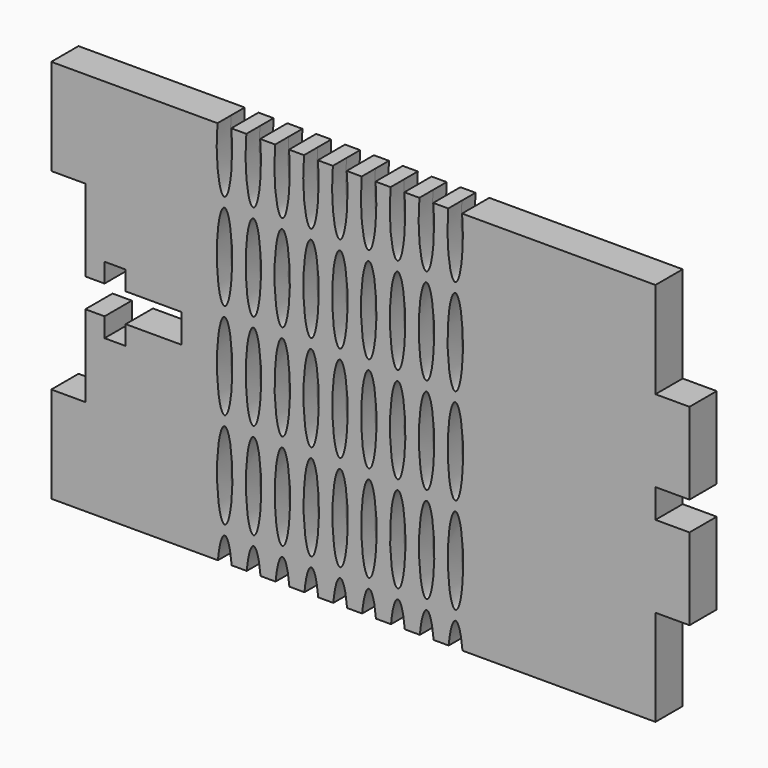
from build123d import *

# Parameters (mm, degrees)
F1_DEPTH = 2.2479


with BuildPart() as f1:
    # F0 (on Front) → F1 (new body, symmetric)
    with BuildSketch(Plane.XZ):
        with BuildLine():
            Line((14.4126236049, -25.4), (39.89705, -25.4))
            Line((39.89705, -25.4), (39.89705, -12.7))
            Line((39.89705, -12.7), (44.39285, -12.7))
            Line((44.39285, -12.7), (44.39285, -1.905))
            Line((44.39285, -1.905), (39.89705, -1.905))
            Line((39.89705, -1.905), (39.89705, 1.905))
            Line((39.89705, 1.905), (44.39285, 1.905))
            Line((44.39285, 1.905), (44.39285, 12.7))
            Line((44.39285, 12.7), (39.89705, 12.7))
            Line((39.89705, 12.7), (39.89705, 25.4))
            Line((39.89705, 25.4), (14.3530893191, 25.4))
            add(Edge.make_bspline(
                [(12.5328106809, 25.4), (11.8046992255, 17.145), (13.44295, 17.145), (15.0812007745, 17.145), (14.3530893191, 25.4)],
                knots=[4.2518349887, 4.2518349887, 4.2518349887, 6.2831853072, 6.2831853072, 8.3145356257, 8.3145356257, 8.3145356257], degree=2, weights=[1, 0.5270462767, 1, 0.5270462767, 1]))
            Line((12.5328106809, 25.4), (10.5430893191, 25.4))
            add(Edge.make_bspline(
                [(8.7228106809, 25.4), (7.9946992255, 17.145), (9.63295, 17.145), (11.2712007745, 17.145), (10.5430893191, 25.4)],
                knots=[4.2518349887, 4.2518349887, 4.2518349887, 6.2831853072, 6.2831853072, 8.3145356257, 8.3145356257, 8.3145356257], degree=2, weights=[1, 0.5270462767, 1, 0.5270462767, 1]))
            Line((8.7228106809, 25.4), (6.7330893191, 25.4))
            add(Edge.make_bspline(
                [(4.9128106809, 25.4), (4.1846992255, 17.145), (5.82295, 17.145), (7.4612007745, 17.145), (6.7330893191, 25.4)],
                knots=[4.2518349887, 4.2518349887, 4.2518349887, 6.2831853072, 6.2831853072, 8.3145356257, 8.3145356257, 8.3145356257], degree=2, weights=[1, 0.5270462767, 1, 0.5270462767, 1]))
            Line((4.9128106809, 25.4), (2.9230893191, 25.4))
            add(Edge.make_bspline(
                [(1.1028106809, 25.4), (0.3746992255, 17.145), (2.01295, 17.145), (3.6512007745, 17.145), (2.9230893191, 25.4)],
                knots=[4.2518349887, 4.2518349887, 4.2518349887, 6.2831853072, 6.2831853072, 8.3145356257, 8.3145356257, 8.3145356257], degree=2, weights=[1, 0.5270462767, 1, 0.5270462767, 1]))
            Line((1.1028106809, 25.4), (-0.8869106809, 25.4))
            add(Edge.make_bspline(
                [(-2.7071893191, 25.4), (-3.4353007745, 17.145), (-1.79705, 17.145), (-0.1587992255, 17.145), (-0.8869106809, 25.4)],
                knots=[4.2518349887, 4.2518349887, 4.2518349887, 6.2831853072, 6.2831853072, 8.3145356257, 8.3145356257, 8.3145356257], degree=2, weights=[1, 0.5270462767, 1, 0.5270462767, 1]))
            Line((-2.7071893191, 25.4), (-4.6969106809, 25.4))
            add(Edge.make_bspline(
                [(-6.5171893191, 25.4), (-7.2453007745, 17.145), (-5.60705, 17.145), (-3.9687992255, 17.145), (-4.6969106809, 25.4)],
                knots=[4.2518349887, 4.2518349887, 4.2518349887, 6.2831853072, 6.2831853072, 8.3145356257, 8.3145356257, 8.3145356257], degree=2, weights=[1, 0.5270462767, 1, 0.5270462767, 1]))
            Line((-6.5171893191, 25.4), (-8.5069106809, 25.4))
            add(Edge.make_bspline(
                [(-10.3271893191, 25.4), (-11.0553007745, 17.145), (-9.41705, 17.145), (-7.7787992255, 17.145), (-8.5069106809, 25.4)],
                knots=[4.2518349887, 4.2518349887, 4.2518349887, 6.2831853072, 6.2831853072, 8.3145356257, 8.3145356257, 8.3145356257], degree=2, weights=[1, 0.5270462767, 1, 0.5270462767, 1]))
            Line((-10.3271893191, 25.4), (-12.3169106809, 25.4))
            add(Edge.make_bspline(
                [(-14.1371893191, 25.4), (-14.8653007745, 17.145), (-13.22705, 17.145), (-11.5887992255, 17.145), (-12.3169106809, 25.4)],
                knots=[4.2518349887, 4.2518349887, 4.2518349887, 6.2831853072, 6.2831853072, 8.3145356257, 8.3145356257, 8.3145356257], degree=2, weights=[1, 0.5270462767, 1, 0.5270462767, 1]))
            Line((-14.1371893191, 25.4), (-16.1269106809, 25.4))
            add(Edge.make_bspline(
                [(-17.9471893191, 25.4), (-18.6753007745, 17.145), (-17.03705, 17.145), (-15.3987992255, 17.145), (-16.1269106809, 25.4)],
                knots=[4.2518349887, 4.2518349887, 4.2518349887, 6.2831853072, 6.2831853072, 8.3145356257, 8.3145356257, 8.3145356257], degree=2, weights=[1, 0.5270462767, 1, 0.5270462767, 1]))
            Line((-17.9471893191, 25.4), (-39.89705, 25.4))
            Line((-39.89705, 25.4), (-39.89705, 12.7))
            Line((-39.89705, 12.7), (-35.40125, 12.7))
            Line((-35.40125, 12.7), (-35.40125, 1.905))
            Line((-35.40125, 1.905), (-32.86125, 1.905))
            Line((-32.86125, 1.905), (-32.86125, 4.445))
            Line((-32.86125, 4.445), (-30.06725, 4.445))
            Line((-30.06725, 4.445), (-30.06725, 1.905))
            Line((-30.06725, 1.905), (-22.70125, 1.905))
            Line((-22.70125, 1.905), (-22.70125, -1.905))
            Line((-22.70125, -1.905), (-30.06725, -1.905))
            Line((-30.06725, -1.905), (-30.06725, -4.445))
            Line((-30.06725, -4.445), (-32.86125, -4.445))
            Line((-32.86125, -4.445), (-32.86125, -1.905))
            Line((-32.86125, -1.905), (-35.40125, -1.905))
            Line((-35.40125, -1.905), (-35.40125, -12.7))
            Line((-35.40125, -12.7), (-39.89705, -12.7))
            Line((-39.89705, -12.7), (-39.89705, -25.4))
            Line((-39.89705, -25.4), (-17.8876611866, -25.4))
            add(Edge.make_bspline(
                [(-16.0673763951, -25.4), (-16.9775187909, -15.0810385281), (-17.8876611866, -25.4)],
                knots=[2.0313435051, 2.0313435051, 2.0313435051, 4.2518418021, 4.2518418021, 4.2518418021], degree=2, weights=[1, 0.4444383409, 1]))
            Line((-16.0673763951, -25.4), (-14.0776611866, -25.4))
            add(Edge.make_bspline(
                [(-12.2573763951, -25.4), (-13.1675187909, -15.0810385281), (-14.0776611866, -25.4)],
                knots=[2.0313435051, 2.0313435051, 2.0313435051, 4.2518418021, 4.2518418021, 4.2518418021], degree=2, weights=[1, 0.4444383409, 1]))
            Line((-12.2573763951, -25.4), (-10.2676611866, -25.4))
            add(Edge.make_bspline(
                [(-8.4473763951, -25.4), (-9.3575187909, -15.0810385281), (-10.2676611866, -25.4)],
                knots=[2.0313435051, 2.0313435051, 2.0313435051, 4.2518418021, 4.2518418021, 4.2518418021], degree=2, weights=[1, 0.4444383409, 1]))
            Line((-8.4473763951, -25.4), (-6.4576611866, -25.4))
            add(Edge.make_bspline(
                [(-4.6373763951, -25.4), (-5.5475187909, -15.0810385281), (-6.4576611866, -25.4)],
                knots=[2.0313435051, 2.0313435051, 2.0313435051, 4.2518418021, 4.2518418021, 4.2518418021], degree=2, weights=[1, 0.4444383409, 1]))
            Line((-4.6373763951, -25.4), (-2.6476611866, -25.4))
            add(Edge.make_bspline(
                [(-0.8273763951, -25.4), (-1.7375187909, -15.0810385281), (-2.6476611866, -25.4)],
                knots=[2.0313435051, 2.0313435051, 2.0313435051, 4.2518418021, 4.2518418021, 4.2518418021], degree=2, weights=[1, 0.4444383409, 1]))
            Line((-0.8273763951, -25.4), (1.1623388134, -25.4))
            add(Edge.make_bspline(
                [(2.9826236049, -25.4), (2.0724812091, -15.0810385281), (1.1623388134, -25.4)],
                knots=[2.0313435051, 2.0313435051, 2.0313435051, 4.2518418021, 4.2518418021, 4.2518418021], degree=2, weights=[1, 0.4444383409, 1]))
            Line((2.9826236049, -25.4), (4.9723388134, -25.4))
            add(Edge.make_bspline(
                [(6.7926236049, -25.4), (5.8824812091, -15.0810385281), (4.9723388134, -25.4)],
                knots=[2.0313435051, 2.0313435051, 2.0313435051, 4.2518418021, 4.2518418021, 4.2518418021], degree=2, weights=[1, 0.4444383409, 1]))
            Line((6.7926236049, -25.4), (8.7823388134, -25.4))
            add(Edge.make_bspline(
                [(10.6026236049, -25.4), (9.6924812091, -15.0810385281), (8.7823388134, -25.4)],
                knots=[2.0313435051, 2.0313435051, 2.0313435051, 4.2518418021, 4.2518418021, 4.2518418021], degree=2, weights=[1, 0.4444383409, 1]))
            Line((10.6026236049, -25.4), (12.5923388134, -25.4))
            add(Edge.make_bspline(
                [(14.4126236049, -25.4), (13.5024812091, -15.0810385281), (12.5923388134, -25.4)],
                knots=[2.0313435051, 2.0313435051, 2.0313435051, 4.2518418021, 4.2518418021, 4.2518418021], degree=2, weights=[1, 0.4444383409, 1]))
        make_face()
        with BuildLine():
            add(Edge.make_bspline(
                [(-16.9924015932, -20.9549738388), (-15.2326379727, -20.9549738388), (-16.1125197829, -12.3824738388), (-16.9924015932, -3.8099738388), (-17.8722834034, -12.3824738388), (-18.7521652136, -20.9549738388), (-16.9924015932, -20.9549738388)],
                knots=[0, 0, 0, 2.0943951024, 2.0943951024, 4.1887902048, 4.1887902048, 6.2831853072, 6.2831853072, 6.2831853072], degree=2, weights=[1, 0.5, 1, 0.5, 1, 0.5, 1]))
        make_face(mode=Mode.SUBTRACT)
        with BuildLine():
            add(Edge.make_bspline(
                [(-13.1824015932, -20.9549738388), (-11.4226379727, -20.9549738388), (-12.3025197829, -12.3824738388), (-13.1824015932, -3.8099738388), (-14.0622834034, -12.3824738388), (-14.9421652136, -20.9549738388), (-13.1824015932, -20.9549738388)],
                knots=[0, 0, 0, 2.0943951024, 2.0943951024, 4.1887902048, 4.1887902048, 6.2831853072, 6.2831853072, 6.2831853072], degree=2, weights=[1, 0.5, 1, 0.5, 1, 0.5, 1]))
        make_face(mode=Mode.SUBTRACT)
        with BuildLine():
            add(Edge.make_bspline(
                [(-9.3724015932, -20.9549738388), (-7.6126379727, -20.9549738388), (-8.4925197829, -12.3824738388), (-9.3724015932, -3.8099738388), (-10.2522834034, -12.3824738388), (-11.1321652136, -20.9549738388), (-9.3724015932, -20.9549738388)],
                knots=[0, 0, 0, 2.0943951024, 2.0943951024, 4.1887902048, 4.1887902048, 6.2831853072, 6.2831853072, 6.2831853072], degree=2, weights=[1, 0.5, 1, 0.5, 1, 0.5, 1]))
        make_face(mode=Mode.SUBTRACT)
        with BuildLine():
            add(Edge.make_bspline(
                [(-5.5624015932, -20.9549738388), (-3.8026379727, -20.9549738388), (-4.6825197829, -12.3824738388), (-5.5624015932, -3.8099738388), (-6.4422834034, -12.3824738388), (-7.3221652136, -20.9549738388), (-5.5624015932, -20.9549738388)],
                knots=[0, 0, 0, 2.0943951024, 2.0943951024, 4.1887902048, 4.1887902048, 6.2831853072, 6.2831853072, 6.2831853072], degree=2, weights=[1, 0.5, 1, 0.5, 1, 0.5, 1]))
        make_face(mode=Mode.SUBTRACT)
        with BuildLine():
            add(Edge.make_bspline(
                [(-1.7524015932, -20.9549738388), (0.0073620273, -20.9549738388), (-0.8725197829, -12.3824738388), (-1.7524015932, -3.8099738388), (-2.6322834034, -12.3824738388), (-3.5121652136, -20.9549738388), (-1.7524015932, -20.9549738388)],
                knots=[0, 0, 0, 2.0943951024, 2.0943951024, 4.1887902048, 4.1887902048, 6.2831853072, 6.2831853072, 6.2831853072], degree=2, weights=[1, 0.5, 1, 0.5, 1, 0.5, 1]))
        make_face(mode=Mode.SUBTRACT)
        with BuildLine():
            add(Edge.make_bspline(
                [(2.0575984068, -20.9549738388), (3.8173620273, -20.9549738388), (2.9374802171, -12.3824738388), (2.0575984068, -3.8099738388), (1.1777165966, -12.3824738388), (0.2978347864, -20.9549738388), (2.0575984068, -20.9549738388)],
                knots=[0, 0, 0, 2.0943951024, 2.0943951024, 4.1887902048, 4.1887902048, 6.2831853072, 6.2831853072, 6.2831853072], degree=2, weights=[1, 0.5, 1, 0.5, 1, 0.5, 1]))
        make_face(mode=Mode.SUBTRACT)
        with BuildLine():
            add(Edge.make_bspline(
                [(-17.0072843954, -8.2549825592), (-15.2475207749, -8.2549825592), (-16.1274025852, 0.3175174408), (-17.0072843954, 8.8900174408), (-17.8871662057, 0.3175174408), (-18.7670480159, -8.2549825592), (-17.0072843954, -8.2549825592)],
                knots=[0, 0, 0, 2.0943951024, 2.0943951024, 4.1887902048, 4.1887902048, 6.2831853072, 6.2831853072, 6.2831853072], degree=2, weights=[1, 0.5, 1, 0.5, 1, 0.5, 1]))
        make_face(mode=Mode.SUBTRACT)
        with BuildLine():
            add(Edge.make_bspline(
                [(-13.1972843954, -8.2549825592), (-11.4375207749, -8.2549825592), (-12.3174025852, 0.3175174408), (-13.1972843954, 8.8900174408), (-14.0771662057, 0.3175174408), (-14.9570480159, -8.2549825592), (-13.1972843954, -8.2549825592)],
                knots=[0, 0, 0, 2.0943951024, 2.0943951024, 4.1887902048, 4.1887902048, 6.2831853072, 6.2831853072, 6.2831853072], degree=2, weights=[1, 0.5, 1, 0.5, 1, 0.5, 1]))
        make_face(mode=Mode.SUBTRACT)
        with BuildLine():
            add(Edge.make_bspline(
                [(-9.3872843954, -8.2549825592), (-7.6275207749, -8.2549825592), (-8.5074025852, 0.3175174408), (-9.3872843954, 8.8900174408), (-10.2671662057, 0.3175174408), (-11.1470480159, -8.2549825592), (-9.3872843954, -8.2549825592)],
                knots=[0, 0, 0, 2.0943951024, 2.0943951024, 4.1887902048, 4.1887902048, 6.2831853072, 6.2831853072, 6.2831853072], degree=2, weights=[1, 0.5, 1, 0.5, 1, 0.5, 1]))
        make_face(mode=Mode.SUBTRACT)
        with BuildLine():
            add(Edge.make_bspline(
                [(-5.5772843954, -8.2549825592), (-3.8175207749, -8.2549825592), (-4.6974025852, 0.3175174408), (-5.5772843954, 8.8900174408), (-6.4571662057, 0.3175174408), (-7.3370480159, -8.2549825592), (-5.5772843954, -8.2549825592)],
                knots=[0, 0, 0, 2.0943951024, 2.0943951024, 4.1887902048, 4.1887902048, 6.2831853072, 6.2831853072, 6.2831853072], degree=2, weights=[1, 0.5, 1, 0.5, 1, 0.5, 1]))
        make_face(mode=Mode.SUBTRACT)
        with BuildLine():
            add(Edge.make_bspline(
                [(-1.7672843954, -8.2549825592), (-0.0075207749, -8.2549825592), (-0.8874025852, 0.3175174408), (-1.7672843954, 8.8900174408), (-2.6471662057, 0.3175174408), (-3.5270480159, -8.2549825592), (-1.7672843954, -8.2549825592)],
                knots=[0, 0, 0, 2.0943951024, 2.0943951024, 4.1887902048, 4.1887902048, 6.2831853072, 6.2831853072, 6.2831853072], degree=2, weights=[1, 0.5, 1, 0.5, 1, 0.5, 1]))
        make_face(mode=Mode.SUBTRACT)
        with BuildLine():
            add(Edge.make_bspline(
                [(2.0427156046, -8.2549825592), (3.8024792251, -8.2549825592), (2.9225974148, 0.3175174408), (2.0427156046, 8.8900174408), (1.1628337943, 0.3175174408), (0.2829519841, -8.2549825592), (2.0427156046, -8.2549825592)],
                knots=[0, 0, 0, 2.0943951024, 2.0943951024, 4.1887902048, 4.1887902048, 6.2831853072, 6.2831853072, 6.2831853072], degree=2, weights=[1, 0.5, 1, 0.5, 1, 0.5, 1]))
        make_face(mode=Mode.SUBTRACT)
        with BuildLine():
            add(Edge.make_bspline(
                [(5.8675984068, -20.9549738388), (7.6273620273, -20.9549738388), (6.7474802171, -12.3824738388), (5.8675984068, -3.8099738388), (4.9877165966, -12.3824738388), (4.1078347864, -20.9549738388), (5.8675984068, -20.9549738388)],
                knots=[0, 0, 0, 2.0943951024, 2.0943951024, 4.1887902048, 4.1887902048, 6.2831853072, 6.2831853072, 6.2831853072], degree=2, weights=[1, 0.5, 1, 0.5, 1, 0.5, 1]))
        make_face(mode=Mode.SUBTRACT)
        with BuildLine():
            add(Edge.make_bspline(
                [(9.6775984068, -20.9549738388), (11.4373620273, -20.9549738388), (10.5574802171, -12.3824738388), (9.6775984068, -3.8099738388), (8.7977165966, -12.3824738388), (7.9178347864, -20.9549738388), (9.6775984068, -20.9549738388)],
                knots=[0, 0, 0, 2.0943951024, 2.0943951024, 4.1887902048, 4.1887902048, 6.2831853072, 6.2831853072, 6.2831853072], degree=2, weights=[1, 0.5, 1, 0.5, 1, 0.5, 1]))
        make_face(mode=Mode.SUBTRACT)
        with BuildLine():
            add(Edge.make_bspline(
                [(13.4875984068, -20.9549738388), (15.2473620273, -20.9549738388), (14.3674802171, -12.3824738388), (13.4875984068, -3.8099738388), (12.6077165966, -12.3824738388), (11.7278347864, -20.9549738388), (13.4875984068, -20.9549738388)],
                knots=[0, 0, 0, 2.0943951024, 2.0943951024, 4.1887902048, 4.1887902048, 6.2831853072, 6.2831853072, 6.2831853072], degree=2, weights=[1, 0.5, 1, 0.5, 1, 0.5, 1]))
        make_face(mode=Mode.SUBTRACT)
        with BuildLine():
            add(Edge.make_bspline(
                [(5.8527156046, -8.2549825592), (7.6124792251, -8.2549825592), (6.7325974148, 0.3175174408), (5.8527156046, 8.8900174408), (4.9728337943, 0.3175174408), (4.0929519841, -8.2549825592), (5.8527156046, -8.2549825592)],
                knots=[0, 0, 0, 2.0943951024, 2.0943951024, 4.1887902048, 4.1887902048, 6.2831853072, 6.2831853072, 6.2831853072], degree=2, weights=[1, 0.5, 1, 0.5, 1, 0.5, 1]))
        make_face(mode=Mode.SUBTRACT)
        with BuildLine():
            add(Edge.make_bspline(
                [(9.6627156046, -8.2549825592), (11.4224792251, -8.2549825592), (10.5425974148, 0.3175174408), (9.6627156046, 8.8900174408), (8.7828337943, 0.3175174408), (7.9029519841, -8.2549825592), (9.6627156046, -8.2549825592)],
                knots=[0, 0, 0, 2.0943951024, 2.0943951024, 4.1887902048, 4.1887902048, 6.2831853072, 6.2831853072, 6.2831853072], degree=2, weights=[1, 0.5, 1, 0.5, 1, 0.5, 1]))
        make_face(mode=Mode.SUBTRACT)
        with BuildLine():
            add(Edge.make_bspline(
                [(13.4727156046, -8.2549825592), (15.2324792251, -8.2549825592), (14.3525974148, 0.3175174408), (13.4727156046, 8.8900174408), (12.5928337943, 0.3175174408), (11.7129519841, -8.2549825592), (13.4727156046, -8.2549825592)],
                knots=[0, 0, 0, 2.0943951024, 2.0943951024, 4.1887902048, 4.1887902048, 6.2831853072, 6.2831853072, 6.2831853072], degree=2, weights=[1, 0.5, 1, 0.5, 1, 0.5, 1]))
        make_face(mode=Mode.SUBTRACT)
        with BuildLine():
            add(Edge.make_bspline(
                [(-17.0221671977, 4.4450087204), (-15.2624035772, 4.4450087204), (-16.1422853875, 13.0175087204), (-17.0221671977, 21.5900087204), (-17.902049008, 13.0175087204), (-18.7819308182, 4.4450087204), (-17.0221671977, 4.4450087204)],
                knots=[0, 0, 0, 2.0943951024, 2.0943951024, 4.1887902048, 4.1887902048, 6.2831853072, 6.2831853072, 6.2831853072], degree=2, weights=[1, 0.5, 1, 0.5, 1, 0.5, 1]))
        make_face(mode=Mode.SUBTRACT)
        with BuildLine():
            add(Edge.make_bspline(
                [(-13.2121671977, 4.4450087204), (-11.4524035772, 4.4450087204), (-12.3322853875, 13.0175087204), (-13.2121671977, 21.5900087204), (-14.092049008, 13.0175087204), (-14.9719308182, 4.4450087204), (-13.2121671977, 4.4450087204)],
                knots=[0, 0, 0, 2.0943951024, 2.0943951024, 4.1887902048, 4.1887902048, 6.2831853072, 6.2831853072, 6.2831853072], degree=2, weights=[1, 0.5, 1, 0.5, 1, 0.5, 1]))
        make_face(mode=Mode.SUBTRACT)
        with BuildLine():
            add(Edge.make_bspline(
                [(-9.4021671977, 4.4450087204), (-7.6424035772, 4.4450087204), (-8.5222853875, 13.0175087204), (-9.4021671977, 21.5900087204), (-10.282049008, 13.0175087204), (-11.1619308182, 4.4450087204), (-9.4021671977, 4.4450087204)],
                knots=[0, 0, 0, 2.0943951024, 2.0943951024, 4.1887902048, 4.1887902048, 6.2831853072, 6.2831853072, 6.2831853072], degree=2, weights=[1, 0.5, 1, 0.5, 1, 0.5, 1]))
        make_face(mode=Mode.SUBTRACT)
        with BuildLine():
            add(Edge.make_bspline(
                [(-5.5921671977, 4.4450087204), (-3.8324035772, 4.4450087204), (-4.7122853875, 13.0175087204), (-5.5921671977, 21.5900087204), (-6.472049008, 13.0175087204), (-7.3519308182, 4.4450087204), (-5.5921671977, 4.4450087204)],
                knots=[0, 0, 0, 2.0943951024, 2.0943951024, 4.1887902048, 4.1887902048, 6.2831853072, 6.2831853072, 6.2831853072], degree=2, weights=[1, 0.5, 1, 0.5, 1, 0.5, 1]))
        make_face(mode=Mode.SUBTRACT)
        with BuildLine():
            add(Edge.make_bspline(
                [(-1.7821671977, 4.4450087204), (-0.0224035772, 4.4450087204), (-0.9022853875, 13.0175087204), (-1.7821671977, 21.5900087204), (-2.662049008, 13.0175087204), (-3.5419308182, 4.4450087204), (-1.7821671977, 4.4450087204)],
                knots=[0, 0, 0, 2.0943951024, 2.0943951024, 4.1887902048, 4.1887902048, 6.2831853072, 6.2831853072, 6.2831853072], degree=2, weights=[1, 0.5, 1, 0.5, 1, 0.5, 1]))
        make_face(mode=Mode.SUBTRACT)
        with BuildLine():
            add(Edge.make_bspline(
                [(2.0278328023, 4.4450087204), (3.7875964228, 4.4450087204), (2.9077146125, 13.0175087204), (2.0278328023, 21.5900087204), (1.147950992, 13.0175087204), (0.2680691818, 4.4450087204), (2.0278328023, 4.4450087204)],
                knots=[0, 0, 0, 2.0943951024, 2.0943951024, 4.1887902048, 4.1887902048, 6.2831853072, 6.2831853072, 6.2831853072], degree=2, weights=[1, 0.5, 1, 0.5, 1, 0.5, 1]))
        make_face(mode=Mode.SUBTRACT)
        with BuildLine():
            add(Edge.make_bspline(
                [(5.8378328023, 4.4450087204), (7.5975964228, 4.4450087204), (6.7177146125, 13.0175087204), (5.8378328023, 21.5900087204), (4.957950992, 13.0175087204), (4.0780691818, 4.4450087204), (5.8378328023, 4.4450087204)],
                knots=[0, 0, 0, 2.0943951024, 2.0943951024, 4.1887902048, 4.1887902048, 6.2831853072, 6.2831853072, 6.2831853072], degree=2, weights=[1, 0.5, 1, 0.5, 1, 0.5, 1]))
        make_face(mode=Mode.SUBTRACT)
        with BuildLine():
            add(Edge.make_bspline(
                [(9.6478328023, 4.4450087204), (11.4075964228, 4.4450087204), (10.5277146125, 13.0175087204), (9.6478328023, 21.5900087204), (8.767950992, 13.0175087204), (7.8880691818, 4.4450087204), (9.6478328023, 4.4450087204)],
                knots=[0, 0, 0, 2.0943951024, 2.0943951024, 4.1887902048, 4.1887902048, 6.2831853072, 6.2831853072, 6.2831853072], degree=2, weights=[1, 0.5, 1, 0.5, 1, 0.5, 1]))
        make_face(mode=Mode.SUBTRACT)
        with BuildLine():
            add(Edge.make_bspline(
                [(13.4578328023, 4.4450087204), (15.2175964228, 4.4450087204), (14.3377146125, 13.0175087204), (13.4578328023, 21.5900087204), (12.577950992, 13.0175087204), (11.6980691818, 4.4450087204), (13.4578328023, 4.4450087204)],
                knots=[0, 0, 0, 2.0943951024, 2.0943951024, 4.1887902048, 4.1887902048, 6.2831853072, 6.2831853072, 6.2831853072], degree=2, weights=[1, 0.5, 1, 0.5, 1, 0.5, 1]))
        make_face(mode=Mode.SUBTRACT)
    extrude(amount=F1_DEPTH, both=True)


solid = f1.part
